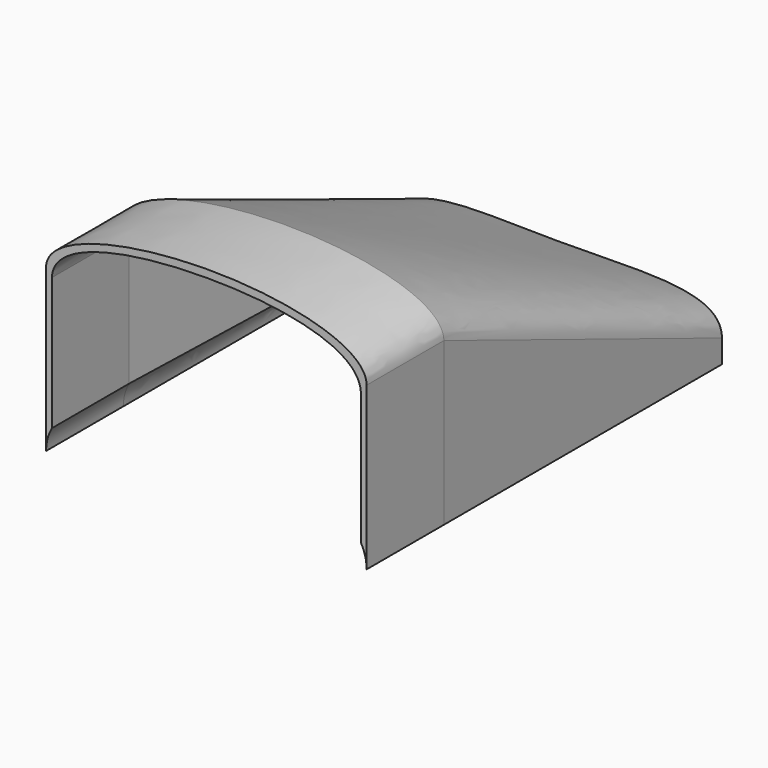
from build123d import *

# Parameters (mm, degrees)
F2_DEPTH = 25


with BuildPart() as f2:
    # F1 (on Front) → F2 (new body)
    with BuildSketch(Plane.XZ):
        with BuildLine():
            Line((-40, 15.6789083458), (-40, 50))
            add(Edge.make_bspline(
                [(-40, 50), (-39.7370681167, 59.1862015426), (-19.7730166838, 62.9601347372), (0, 63)],
                knots=[0, 0, 0, 0, 0.5, 0.5, 0.5, 0.5], degree=3))
            Line((0, 63), (0, 65))
            add(Edge.make_bspline(
                [(-41.5, 52), (-41.2604510784, 60.0147508085), (-20.6721061841, 64.8882170767), (0, 65)],
                knots=[0, 0, 0, 0, 0.5, 0.5, 0.5, 0.5], degree=3))
            Line((-41.5, 52), (-41.5, 10))
            ThreePointArc((-41.5, 10), (-41.118677979, 12.9368350311), (-40, 15.6789083458))
        make_face()
        with BuildLine():
            add(Edge.make_bspline(
                [(0, 63), (19.7730166838, 63.0398652628), (39.3549986184, 59.3456625938), (40, 50)],
                knots=[0.5, 0.5, 0.5, 0.5, 1, 1, 1, 1], degree=3))
            Line((40, 50), (40, 15.6789083458))
            ThreePointArc((40, 15.6789083458), (41.118677979, 12.9368350311), (41.5, 10))
            Line((41.5, 10), (41.5, 52))
            add(Edge.make_bspline(
                [(0, 65), (20.6721061841, 65.1117829233), (41.4279736578, 60.4618825018), (41.5, 52)],
                knots=[0.5, 0.5, 0.5, 0.5, 1, 1, 1, 1], degree=3))
            Line((0, 65), (0, 63))
        make_face()
    extrude(amount=F2_DEPTH)


with BuildPart() as f5:
    # F4 (on offset) → F5 section 0
    with BuildSketch(Plane.XZ.offset(-90)):
        with BuildLine():
            ThreePointArc((30, 21.5), (38.1317279836, 18.1317279836), (41.5, 10))
            Line((41.5, 10), (41.5, 16))
            add(Edge.make_bspline(
                [(-41.5, 16), (-41.4757654071, 26.4647752047), (0.0216290355, 22.0609577373), (41.4325073361, 26.5375655144), (41.5, 16)],
                knots=[0, 0, 0, 0, 0.5, 1, 1, 1, 1], degree=3))
            Line((-41.5, 16), (-41.5, 10))
            ThreePointArc((-41.5, 10), (-38.1317279836, 18.1317279836), (-30, 21.5))
            Line((-30, 21.5), (-30, 22))
            Line((-30, 22), (30, 22))
            Line((30, 22), (30, 21.5))
        make_face()
    # F2_face (on face) → F5 section 1
    with BuildSketch(Plane(origin=(0.6511212394, 0, 49.7842272157), x_dir=(1, 0, 0), z_dir=(0, 1, 0))):
        with BuildLine():
            Line((-40.6511212394, -0.2157727843), (-40.6511212394, 34.1053188699))
            ThreePointArc((-40.6511212394, 34.1053188699), (-41.7697992183, 36.8473921846), (-42.1511212394, 39.7842272157))
            Line((-42.1511212394, 39.7842272157), (-42.1511212394, -2.2157727843))
            add(Edge.make_bspline(
                [(40.8488787606, -2.2157727843), (40.7768524185, -10.6776552861), (-0.7348825291, -19.9774561291), (-41.9115723178, -10.2305235928), (-42.1511212394, -2.2157727843)],
                knots=[0.5, 0.5, 0.5, 0.5, 1, 1.5, 1.5, 1.5, 1.5], degree=3))
            Line((40.8488787606, -2.2157727843), (40.8488787606, 39.7842272157))
            ThreePointArc((40.8488787606, 39.7842272157), (40.4675567396, 36.8473921846), (39.3488787606, 34.1053188699))
            Line((39.3488787606, 34.1053188699), (39.3488787606, -0.2157727843))
            add(Edge.make_bspline(
                [(-40.6511212394, -0.2157727843), (-40.388189356, -9.4019743269), (-0.4600864902, -16.9498407161), (38.703877379, -9.5614353781), (39.3488787606, -0.2157727843)],
                knots=[0, 0, 0, 0, 0.5, 1, 1, 1, 1], degree=3))
        make_face()
    loft()


solid = Compound([f2.part, f5.part])
